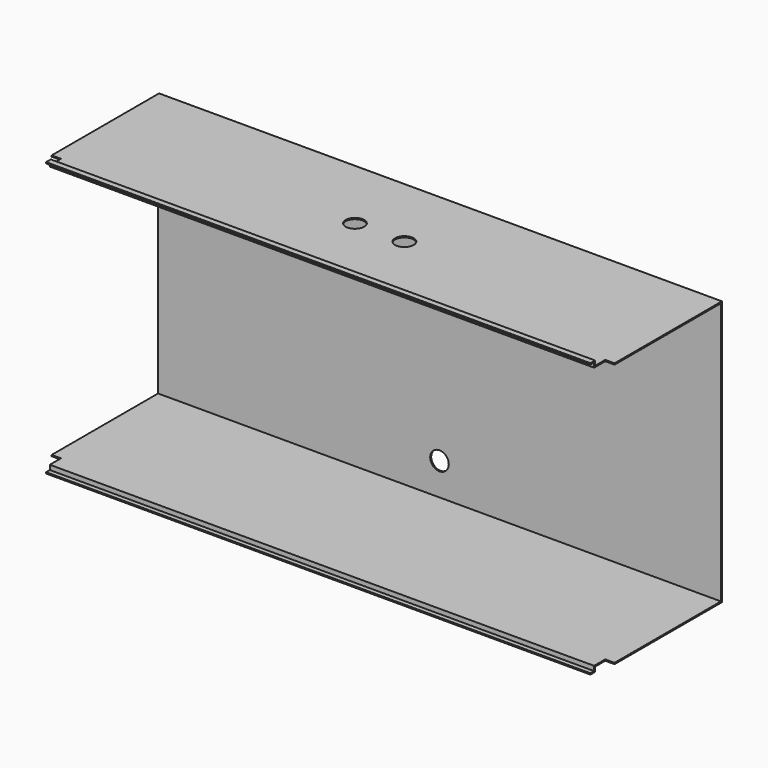
from build123d import *

# Parameters (mm, degrees)
F0_R      = 9.525
F1_DEPTH  = 1.27
F2_W      = 577.85
F2_H      = 1.27
F3_DEPTH  = 150.8252
F4_W      = 577.85
F4_H      = 1.27
F5_DEPTH  = 4.7625
F6_W      = 577.85
F6_H      = 1.27
F7_DEPTH  = 4.7625
F9_DEPTH  = 577.85
F10_DEPTH = 25.4
F11_R     = 9.525
F12_DEPTH = 25.4
F13_W     = 9.525
F13_H     = 19.05
F14_DEPTH = 281.4838


with BuildPart() as f1:
    # F0 (on Front) → F1 (new body)
    with BuildSketch(Plane.XZ):
        Polygon((279.4, 287.3629), (-279.4, 287.3629), (-279.4, 264.2743), (-288.925, 264.2743), (-288.925, -264.2743), (-279.4, -264.2743), (-279.4, -287.3629), (279.4, -287.3629), (279.4, -264.2743), (288.925, -264.2743), (288.925, 264.2743), (279.4, 264.2743), align=None)
        with Locations((0, -101.6127)):
            Circle(F0_R, mode=Mode.SUBTRACT)
        with Locations((-215.9, 100.3173)):
            Circle(F0_R, mode=Mode.SUBTRACT)
        with Locations((-139.7, 100.3173)):
            Circle(F0_R, mode=Mode.SUBTRACT)
        with Locations((-101.6, 100.3173)):
            Circle(F0_R, mode=Mode.SUBTRACT)
        with Locations((-63.5, 100.3173)):
            Circle(F0_R, mode=Mode.SUBTRACT)
        with Locations((-25.4, 100.3173)):
            Circle(F0_R, mode=Mode.SUBTRACT)
        with Locations((136.525, 100.3173)):
            Circle(F0_R, mode=Mode.SUBTRACT)
        with Locations((212.725, 100.3173)):
            Circle(F0_R, mode=Mode.SUBTRACT)
    extrude(amount=F1_DEPTH)

    # F2 (on face) → F3 (join)
    with BuildSketch(Plane.XZ.offset(1.27)):
        with Locations((0, 135.3439)):
            Rectangle(F2_W, F2_H)
        with Locations((0, -135.3439)):
            Rectangle(F2_W, F2_H)
    extrude(amount=F3_DEPTH)

    # F4 (on face) → F5 (join)
    with BuildSketch(Plane(origin=(0, 0, -135.9789), x_dir=(1, 0, 0), z_dir=(0, 0, -1))):
        with Locations((0, 151.4602)):
            Rectangle(F4_W, F4_H)
    extrude(amount=F5_DEPTH)

    # F6 (on face) → F7 (join)
    with BuildSketch(Plane.XZ.offset(152.0952)):
        with Locations((0, -140.1064)):
            Rectangle(F6_W, F6_H)
    extrude(amount=F7_DEPTH)

    # F8 (on face) → F9 (join)
    with BuildSketch(Plane(origin=(-288.925, 0, 0), x_dir=(0, -1, 0), z_dir=(-1, 0, 0))):
        Polygon((150.8252, 140.7414), (150.8252, 135.9789), (152.0952, 135.9789), (152.0952, 139.4714), (156.845, 139.4714), (156.845, 140.7414), align=None)
    extrude(amount=-F9_DEPTH)

    # F10 (cut): faces of the model
    f10_faces = [f1.faces().sort_by_distance(p)[0] for p in [
        (0, -1.27, -211.346733802),
        (0, -1.27, 211.346733802),
    ]]
    extrude(f10_faces, amount=-F10_DEPTH, mode=Mode.SUBTRACT)

    # F11 (on face) → F12 (cut)
    with BuildSketch(Plane.XY.offset(135.9789)):
        with Locations((25.4, -78.0257880688)):
            Circle(F11_R)
        with Locations((-25.4, -78.0257880688)):
            Circle(F11_R)
    extrude(amount=-F12_DEPTH, mode=Mode.SUBTRACT)

    # F13 (on face) → F14 (cut, through all)
    with BuildSketch(Plane.XY.offset(140.7414)):
        with Locations((-284.1625, -147.32)):
            Rectangle(F13_W, F13_H)
        Polygon((-279.4, -156.845), (-288.925, -156.845), (-289.9772524834, -156.845), (-289.9772524834, -157.6761454344), (-279.4, -157.6761454344), align=None)
        Polygon((292.2254502773, -156.845), (288.925, -156.845), (279.4, -156.845), (279.4, -157.6761454344), (292.2254502773, -157.6761454344), align=None)
        with Locations((284.1625, -147.32)):
            Rectangle(F13_W, F13_H)
    extrude(amount=-F14_DEPTH, mode=Mode.SUBTRACT)


solid = f1.part
